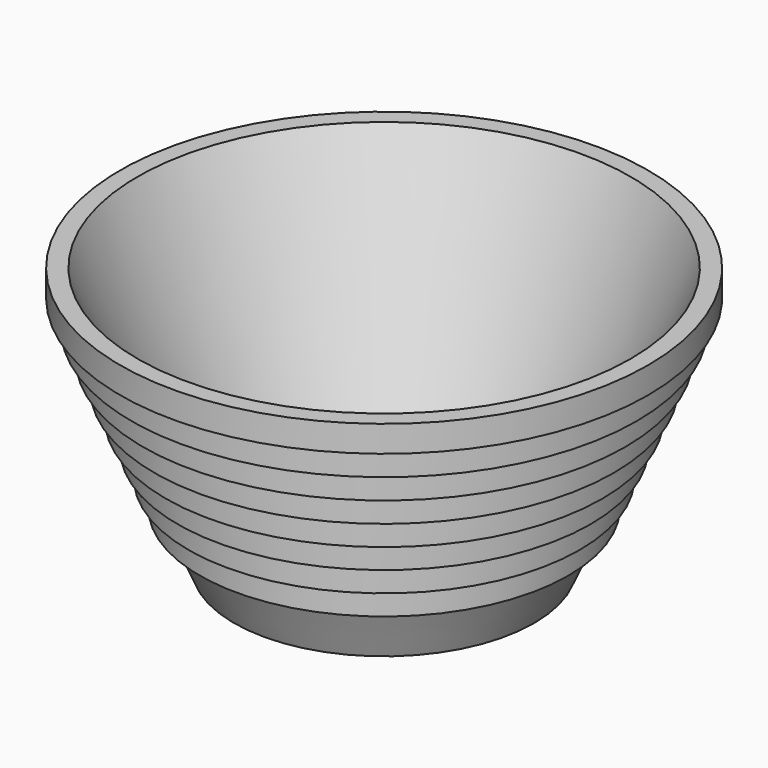
from build123d import *


with BuildPart() as f1:
    # F0 (on Front) → F1 (revolve)
    with BuildSketch(Plane.XZ):
        Polygon((0, 3.0734), (0, 0), (28.896165, 0), (33.279671, 10.166352), (35.462918, 15.229802), (37.648396, 20.298425), (39.820973, 25.337126), (42.01252, 30.419827), (44.210749, 35.51802), (46.408979, 40.616218), (48.609616, 45.72), (50.8, 50.8), (47.453077, 50.8), (26.874424, 3.0734), align=None)
        Polygon((35.462918, 15.229802), (33.279671, 10.166352), (35.462918, 10.166352), align=None)
        Polygon((37.648396, 20.298425), (35.462918, 15.229802), (37.648396, 15.229802), align=None)
        Polygon((39.820973, 25.337126), (37.648396, 20.298425), (39.742064, 20.265847), align=None)
        Polygon((42.01252, 30.419827), (39.820973, 25.337126), (42.01252, 25.337126), align=None)
        Polygon((44.210749, 35.51802), (42.01252, 30.419827), (44.210749, 30.419827), align=None)
        Polygon((46.408979, 35.51802), (46.408979, 40.616218), (44.210749, 35.51802), align=None)
        Polygon((50.8, 45.72), (50.8, 50.8), (48.609616, 45.72), align=None)
        Polygon((48.609616, 40.616218), (48.609616, 45.72), (46.408979, 40.616218), align=None)
    revolve(axis=Axis((0, 0, 25.4), (0, 0, 1)))


solid = f1.part
